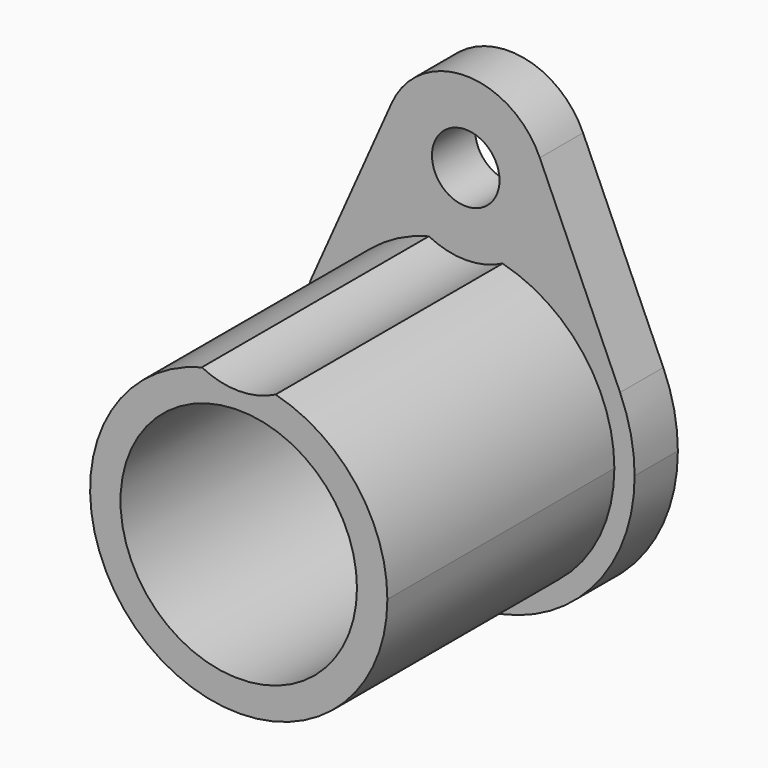
from build123d import *

# Parameters (mm, degrees)
F0_R     = 2.5
F0_R_2   = 8.75
F1_DEPTH = 4
F2_DEPTH = 25


with BuildPart() as f1:
    # F0 (on Front) → F1 (new body)
    with BuildSketch(Plane.XZ):
        with BuildLine():
            ThreePointArc((-11.4220246228, 5.078125), (-8.5149010727, 9.1513091808), (-4.2430938258, 11.7578125))
            ThreePointArc((-4.2430938258, 11.7578125), (-5.8992965117, 14.9053307956), (-5.482571819, 18.4375))
            Line((-5.482571819, 18.4375), (-11.4220246228, 5.078125))
        make_face()
        with BuildLine():
            ThreePointArc((6, 16), (5.5433998122, 13.704195452), (4.2430938258, 11.7578125))
            ThreePointArc((4.2430938258, 11.7578125), (8.5149010727, 9.1513091808), (11.4220246228, 5.078125))
            Line((11.4220246228, 5.078125), (5.482571819, 18.4375))
            ThreePointArc((5.482571819, 18.4375), (5.8692176188, 17.2459071166), (6, 16))
        make_face()
        with BuildLine():
            ThreePointArc((-4.2430938258, 11.7578125), (0, 12.5), (4.2430938258, 11.7578125))
            ThreePointArc((4.2430938258, 11.7578125), (5.5433998122, 13.704195452), (6, 16))
            ThreePointArc((6, 16), (5.8692176188, 17.2459071166), (5.482571819, 18.4375))
            ThreePointArc((5.482571819, 18.4375), (0, 22), (-5.482571819, 18.4375))
            ThreePointArc((-5.482571819, 18.4375), (-5.8992965117, 14.9053307956), (-4.2430938258, 11.7578125))
        make_face()
        with Locations((0, 16)):
            Circle(F0_R, mode=Mode.SUBTRACT)
        with BuildLine():
            ThreePointArc((-2.7284310395, 10.65625), (0, 11), (2.7284310395, 10.65625))
            ThreePointArc((2.7284310395, 10.65625), (3.52900832, 11.1475675917), (4.2430938258, 11.7578125))
            ThreePointArc((4.2430938258, 11.7578125), (0, 12.5), (-4.2430938258, 11.7578125))
            ThreePointArc((-4.2430938258, 11.7578125), (-3.52900832, 11.1475675917), (-2.7284310395, 10.65625))
        make_face()
        with BuildLine():
            ThreePointArc((2.7284310395, 10.65625), (8.6894401844, 6.7448965361), (11, 0))
            ThreePointArc((11, 0), (-6.7448965361, -8.6894401844), (-2.7284310395, 10.65625))
            ThreePointArc((-2.7284310395, 10.65625), (-3.52900832, 11.1475675917), (-4.2430938258, 11.7578125))
            ThreePointArc((-4.2430938258, 11.7578125), (-8.5149010727, 9.1513091808), (-11.4220246228, 5.078125))
            ThreePointArc((-11.4220246228, 5.078125), (-2.5956398262, -12.2275367058), (12.5, 0))
            ThreePointArc((12.5, 0), (12.2275367058, 2.5956398262), (11.4220246228, 5.078125))
            ThreePointArc((11.4220246228, 5.078125), (8.5149010727, 9.1513091808), (4.2430938258, 11.7578125))
            ThreePointArc((4.2430938258, 11.7578125), (3.52900832, 11.1475675917), (2.7284310395, 10.65625))
        make_face()
        with BuildLine():
            ThreePointArc((2.7284310395, 10.65625), (8.6894401844, 6.7448965361), (11, 0))
            ThreePointArc((11, 0), (-6.7448965361, -8.6894401844), (-2.7284310395, 10.65625))
            ThreePointArc((-2.7284310395, 10.65625), (-3.52900832, 11.1475675917), (-4.2430938258, 11.7578125))
            ThreePointArc((-4.2430938258, 11.7578125), (-8.5149010727, 9.1513091808), (-11.4220246228, 5.078125))
            ThreePointArc((-11.4220246228, 5.078125), (-2.5956398262, -12.2275367058), (12.5, 0))
            ThreePointArc((12.5, 0), (12.2275367058, 2.5956398262), (11.4220246228, 5.078125))
            ThreePointArc((11.4220246228, 5.078125), (8.5149010727, 9.1513091808), (4.2430938258, 11.7578125))
            ThreePointArc((4.2430938258, 11.7578125), (3.52900832, 11.1475675917), (2.7284310395, 10.65625))
        make_face()
        with BuildLine():
            ThreePointArc((-2.7284310395, 10.65625), (-6.7448965361, -8.6894401844), (11, 0))
            ThreePointArc((11, 0), (8.6894401844, 6.7448965361), (2.7284310395, 10.65625))
            ThreePointArc((2.7284310395, 10.65625), (0, 10), (-2.7284310395, 10.65625))
        make_face()
        Circle(F0_R_2, mode=Mode.SUBTRACT)
        with BuildLine():
            ThreePointArc((-2.7284310395, 10.65625), (0, 10), (2.7284310395, 10.65625))
            ThreePointArc((2.7284310395, 10.65625), (0, 11), (-2.7284310395, 10.65625))
        make_face()
    extrude(amount=F1_DEPTH)

    # F0 (on Front) → F2 (join)
    with BuildSketch(Plane.XZ):
        with BuildLine():
            ThreePointArc((-2.7284310395, 10.65625), (-6.7448965361, -8.6894401844), (11, 0))
            ThreePointArc((11, 0), (8.6894401844, 6.7448965361), (2.7284310395, 10.65625))
            ThreePointArc((2.7284310395, 10.65625), (0, 10), (-2.7284310395, 10.65625))
        make_face()
        Circle(F0_R_2, mode=Mode.SUBTRACT)
    extrude(amount=F2_DEPTH)


solid = f1.part
